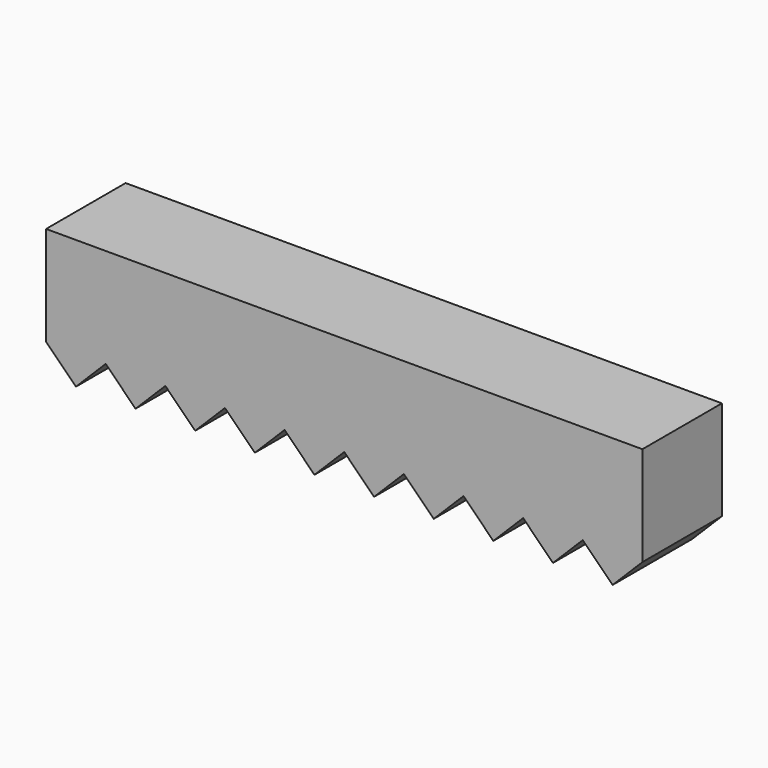
from build123d import *

# Parameters (mm, degrees)
F1_DEPTH = 25.4


with BuildPart() as f1:
    # F0 (on Front) → F1 (new body)
    with BuildSketch(Plane.XZ):
        Polygon((68.58, -20.32), (76.2, -12.7), (60.96, -12.7), align=None)
        Polygon((60.96, -12.7), (76.2, -12.7), (76.2, 12.7), (-76.2, 12.7), (-76.2, -12.7), (-60.96, -12.7), (-45.72, -12.7), (-30.48, -12.7), (-15.24, -12.7), (0, -12.7), (15.24, -12.7), (30.48, -12.7), (45.72, -12.7), align=None)
        Polygon((53.34, -20.32), (60.96, -12.7), (45.72, -12.7), align=None)
        Polygon((38.1, -20.32), (45.72, -12.7), (30.48, -12.7), align=None)
        Polygon((22.86, -20.32), (30.48, -12.7), (15.24, -12.7), align=None)
        Polygon((-60.96, -12.7), (-76.2, -12.7), (-68.58, -20.32), align=None)
        Polygon((7.62, -20.32), (15.24, -12.7), (0, -12.7), align=None)
        Polygon((-45.72, -12.7), (-60.96, -12.7), (-53.34, -20.32), align=None)
        Polygon((-7.62, -20.32), (0, -12.7), (-15.24, -12.7), align=None)
        Polygon((-30.48, -12.7), (-45.72, -12.7), (-38.1, -20.32), align=None)
        Polygon((-22.86, -20.32), (-15.24, -12.7), (-30.48, -12.7), align=None)
    extrude(amount=F1_DEPTH)


solid = f1.part
